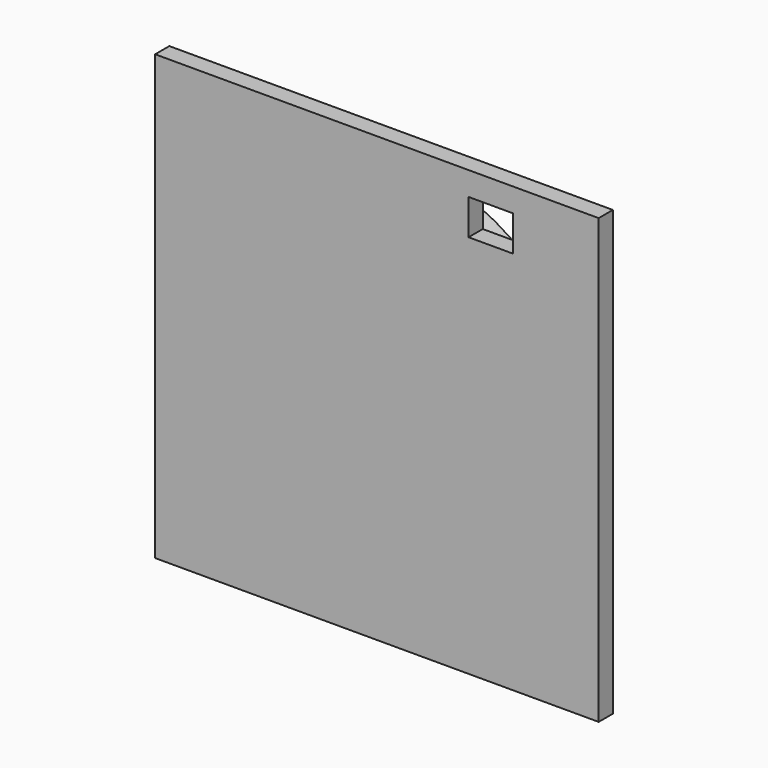
from build123d import *

# Parameters (mm, degrees)
F0_R     = 62.5
F0_R_2   = 2.5
F1_DEPTH = 6
F2_W     = 150
F2_H     = 150
F2_W_2   = 15
F2_H_2   = 12
F3_DEPTH = 6


with BuildPart() as f1:
    # F0 (on Front) → F1 (new body)
    with BuildSketch(Plane.XZ):
        Circle(F0_R)
        with Locations((-37.5, -37.5)):
            Circle(F0_R_2, mode=Mode.SUBTRACT)
        with Locations((37.5, -37.5)):
            Circle(F0_R_2, mode=Mode.SUBTRACT)
        with Locations((-37.5, 37.5)):
            Circle(F0_R_2, mode=Mode.SUBTRACT)
        with Locations((37.5, 37.5)):
            Circle(F0_R_2, mode=Mode.SUBTRACT)
    extrude(amount=F1_DEPTH)


with BuildPart() as f3:
    # F2 (on face) → F3 (new body)
    with BuildSketch(Plane.XZ.offset(6)):
        Rectangle(F2_W, F2_H)
        with Locations((38.5, 61)):
            Rectangle(F2_W_2, F2_H_2, mode=Mode.SUBTRACT)
    extrude(amount=F3_DEPTH)


solid = Compound([f1.part, f3.part])
